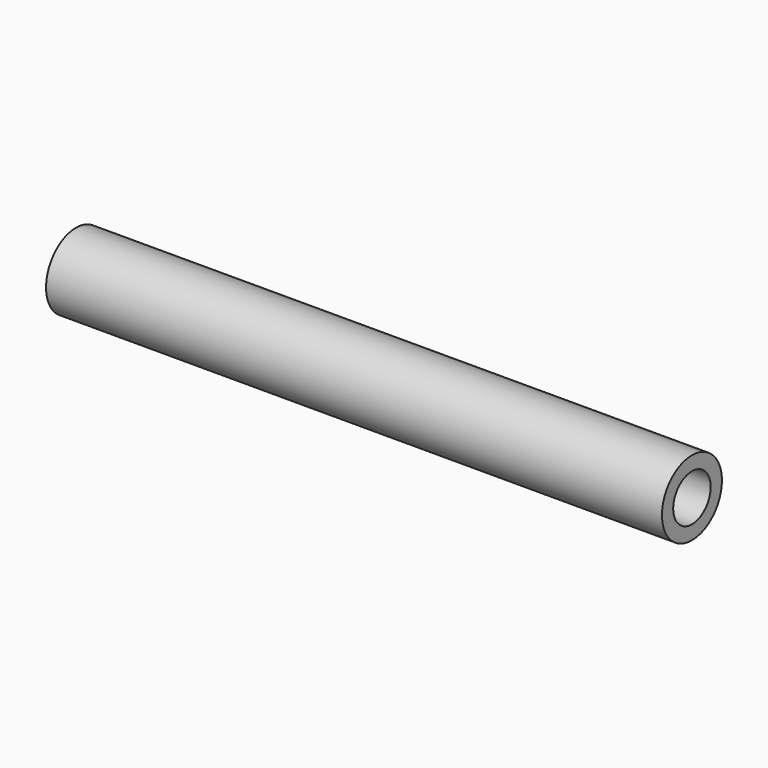
from build123d import *

# Parameters (mm, degrees)
F2_R   = 12.7
F2_R_2 = 7.9375


with BuildPart() as f3:
    # F3: sweep along a path in F0
    with BuildLine(Plane.XZ) as f3_path:
        Line((172.2317207227, 0), (381, 0))
    # F2 (on offset) → F3 (sweep)
    with BuildSketch(Plane.YZ.offset(381)):
        Circle(F2_R)
        Circle(F2_R_2, mode=Mode.SUBTRACT)
    sweep(path=f3_path.line)


solid = f3.part
